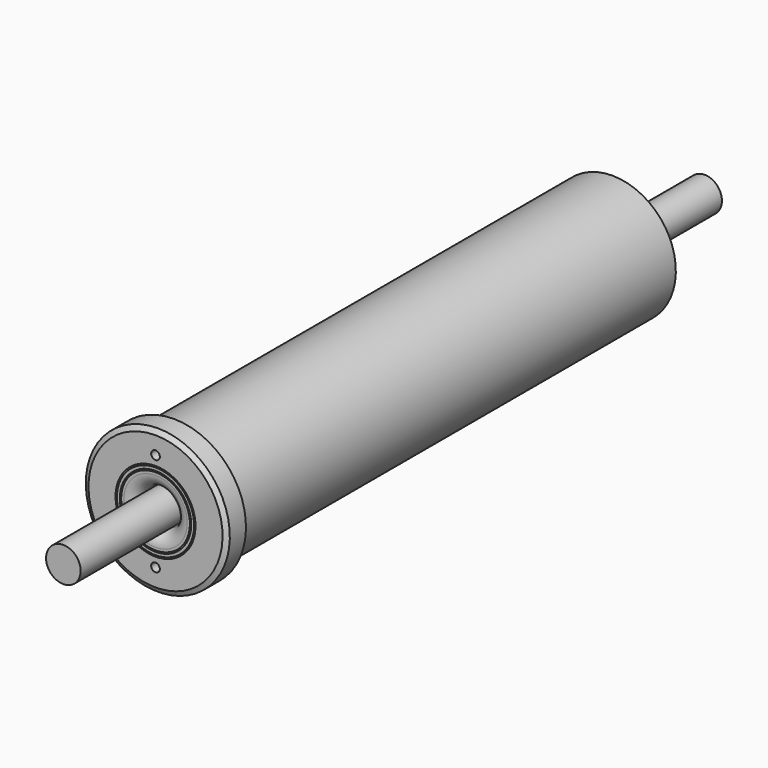
from build123d import *

# Parameters (mm, degrees)
F0_W     = 139.150937
F0_H     = 3
F0_W_2   = 95.100937
F0_H_2   = 0.5
F1_R     = 0.75
F4_DEPTH = 119.151937


with BuildPart() as f3:
    # F0 (on Right) → F3 (revolve)
    with BuildSketch(Plane.YZ):
        with Locations((49.575468, 1.5)):
            Rectangle(F0_W, F0_H)
        Polygon((0, 6.945447), (0.212132, 6.733315), (19.350481, 5.058926), (20, 5.433926), (20, 9.325937), (20, 10.15), (19.566987, 10.4), (4, 10.4), (4, 12.5), (0.5, 12.5), (0, 11.633975), (0, 7.825937), align=None)
        with BuildLine():
            ThreePointArc((0, 5.499773), (0.658943, 3.908943), (2.249773, 3.25))
            Line((2.249773, 3.25), (19.787868, 3.25))
            Line((19.787868, 3.25), (20, 3.462132))
            Line((20, 3.462132), (20, 4.256427))
            Line((20, 4.256427), (19.787868, 4.468559))
            Line((19.787868, 4.468559), (0.212132, 6.181214))
            Line((0.212132, 6.181214), (0, 5.969082))
            Line((0, 5.969082), (0, 5.499773))
        make_face()
        with BuildLine():
            Line((80.433013, 10.4), (80, 10.15))
            Line((80, 10.15), (80, 6.049773))
            ThreePointArc((80, 6.049773), (80.658943, 4.458943), (82.249773, 3.8))
            Line((82.249773, 3.8), (98.425937, 3.8))
            ThreePointArc((98.425937, 3.8), (99.150937, 4.525), (98.425937, 5.25))
            Line((98.425937, 5.25), (86.425937, 5.25))
            Line((86.425937, 5.25), (84, 5.25))
            Line((84, 5.25), (84, 7.675937))
            Line((84, 7.675937), (84, 10.15))
            Line((84, 10.15), (83.566987, 10.4))
            Line((83.566987, 10.4), (80.433013, 10.4))
        make_face()
        with Locations((51.600468, 10.75)):
            Rectangle(F0_W_2, F0_H_2)
    revolve(axis=Axis((0, 49.575469, 0), (0, 1, 0)))

    # F1 (on Front) → F4 (cut, through all)
    with BuildSketch(Plane.XZ):
        with Locations((0, -8.575937)):
            Circle(F1_R)
        with Locations((0, 8.575937)):
            Circle(F1_R)
    extrude(amount=-F4_DEPTH, mode=Mode.SUBTRACT)


with BuildPart() as f5:
    # F2 (on Right) → F5 (revolve)
    with BuildSketch(Plane.YZ):
        with BuildLine():
            Line((20, 4.45), (36.573576, 3))
            Line((36.573576, 3), (85.223664, 3))
            Line((85.223664, 3), (98.425937, 3.3))
            ThreePointArc((98.425937, 3.3), (99.650937, 4.525), (98.425937, 5.75))
            Line((98.425937, 5.75), (84, 5.75))
            Line((84, 5.75), (84, 5.25))
            Line((84, 5.25), (98.425937, 5.25))
            ThreePointArc((98.425937, 5.25), (99.150937, 4.525), (98.425937, 3.8))
            Line((98.425937, 3.8), (85.223664, 3.50191))
            Line((85.223664, 3.50191), (36.573576, 3.50191))
            Line((36.573576, 3.50191), (20.032886, 4.949033))
            Line((20.032886, 4.949033), (0, 6.701683))
            Line((0, 6.701683), (0, 6.199773))
            Line((0, 6.199773), (20, 4.45))
        make_face()
    revolve(axis=Axis((0, 49.575469, 0), (0, 1, 0)))


solid = Compound([f3.part, f5.part])
